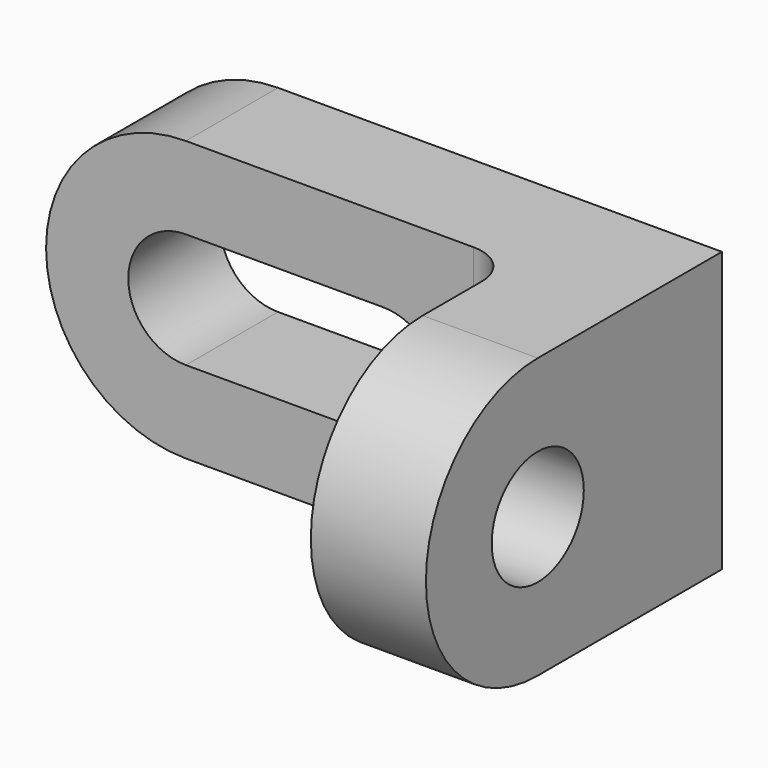
from build123d import *

# Parameters (mm, degrees)
F1_DEPTH = 14
F2_R     = 7
F3_DEPTH = 14
F4_R     = 5


with BuildPart() as f1:
    # F0 (on Front) → F1 (new body)
    with BuildSketch(Plane.XZ):
        with BuildLine():
            Line((27, 17), (-27, 17))
            ThreePointArc((-27, 17), (-44, 0), (-27, -17))
            Line((-27, -17), (27, -17))
            Line((27, -17), (27, 17))
        make_face()
        with BuildLine():
            Line((-3, -7), (-27, -7))
            ThreePointArc((-27, -7), (-34, 0), (-27, 7))
            Line((-27, 7), (-3, 7))
            ThreePointArc((-3, 7), (4, 0), (-3, -7))
        make_face(mode=Mode.SUBTRACT)
    extrude(amount=F1_DEPTH)

    # F2 (on face) → F3 (join)
    with BuildSketch(Plane.YZ.offset(27)):
        with BuildLine():
            Line((-28, -17), (0, -17))
            Line((0, -17), (0, 17))
            Line((0, 17), (-28, 17))
            ThreePointArc((-28, 17), (-45, 0), (-28, -17))
        make_face()
        with Locations((-28, 0)):
            Circle(F2_R, mode=Mode.SUBTRACT)
    extrude(amount=-F3_DEPTH)

    # F4
    f4_edges = [f1.edges().sort_by_distance(p)[0] for p in [
        (13, -14, 0),
    ]]
    fillet(f4_edges, radius=F4_R)


solid = f1.part
